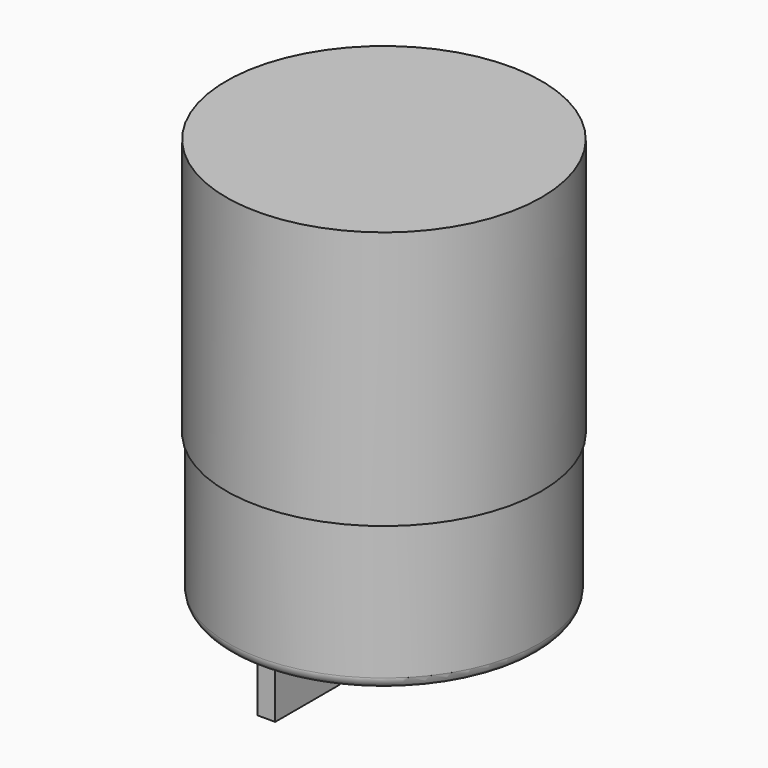
from build123d import *

# Parameters (mm, degrees)
SKETCH_R     = 13.9
PAD_DEPTH    = 22.8
SKETCH001_R  = 13.7
PAD001_DEPTH = 12.9
FILLET_R     = 1
SKETCH002_W  = 1.549461
SKETCH002_H  = 7.151371
PAD002_DEPTH = 10.36


with BuildPart() as part:
    # Sketch → Pad (new body)
    with BuildSketch(Plane.XY):
        Circle(SKETCH_R)
    extrude(amount=-PAD_DEPTH)

    # Sketch001 → Pad001 (join)
    with BuildSketch(Plane.XY.offset(-22.8)):
        Circle(SKETCH001_R)
    extrude(amount=-PAD001_DEPTH)

    # Fillet
    fillet_edges = [part.edges().sort_by_distance(p)[0] for p in [
        (-13.7, 0, -35.7),
    ]]
    fillet(fillet_edges, radius=FILLET_R)

    # Sketch002 (on Face4 of Fillet) → Pad002 (join)
    with BuildSketch(Plane(origin=(0, 0, -35.7), x_dir=(1, 0, 0), z_dir=(0, 0, -1))):
        with Locations((-7.608272, -0.134424)):
            Rectangle(SKETCH002_W, SKETCH002_H)
    extrude(amount=PAD002_DEPTH)


solid = part.part
